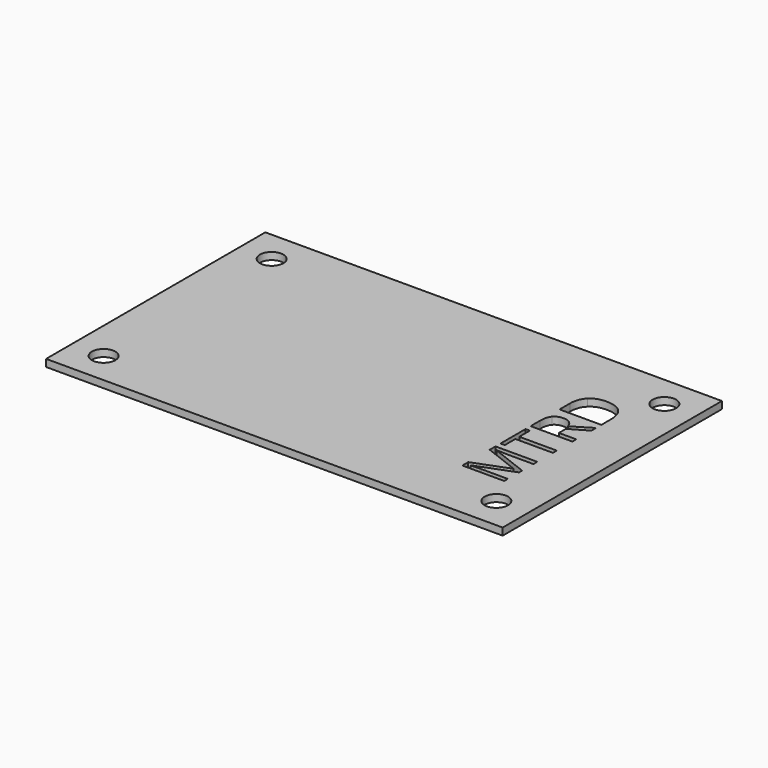
from build123d import *

# Parameters (mm, degrees)
F0_W     = 63.5
F0_H     = 38.11
F0_R     = 1.63195
F1_DEPTH = 1


with BuildPart() as f1:
    # F0 (on Top) → F1 (new body)
    with BuildSketch(Plane.XY):
        Rectangle(F0_W, F0_H)
        with Locations((-27.305, -14.605)):
            Circle(F0_R, mode=Mode.SUBTRACT)
        with Locations((27.305, -14.605)):
            Circle(F0_R, mode=Mode.SUBTRACT)
        with BuildLine():
            Line((25.0343345106, -7.2836339695), (25.0343345106, -7.8282632467))
            Line((25.0343345106, -7.8282632467), (19.8807163504, -9.800635629))
            Line((19.8807163504, -9.800635629), (19.8807163504, -9.8324480867))
            add(Edge.make_bspline(
                [(19.8807163504, -9.8324480867), (20.4927880381, -9.776458161), (21.3364544184, -9.776458161)],
                knots=[0, 0, 0, 1, 1, 1], degree=2))
            Line((21.3364544184, -9.776458161), (25.0343345106, -9.776458161))
            Line((25.0343345106, -9.776458161), (25.0343345106, -10.4012548318))
            Line((25.0343345106, -10.4012548318), (19.220289727, -10.4012548318))
            Line((19.220289727, -10.4012548318), (19.220289727, -9.3832561829))
            Line((19.220289727, -9.3832561829), (24.0163358617, -7.5419511267))
            Line((24.0163358617, -7.5419511267), (24.0163358617, -7.5101386689))
            Line((24.0163358617, -7.5101386689), (19.220289727, -5.6535636329))
            Line((19.220289727, -5.6535636329), (19.220289727, -4.6431999739))
            Line((19.220289727, -4.6431999739), (25.0343345106, -4.6431999739))
            Line((25.0343345106, -4.6431999739), (25.0343345106, -5.3188965771))
            Line((25.0343345106, -5.3188965771), (21.2880994826, -5.3188965771))
            add(Edge.make_bspline(
                [(21.2880994826, -5.3188965771), (20.6442153371, -5.3188965771), (19.8883513403, -5.2629066514)],
                knots=[0, 0, 0, 1, 1, 1], degree=2))
            Line((19.8883513403, -5.2629066514), (19.8883513403, -5.2947191092))
            Line((19.8883513403, -5.2947191092), (25.0343345106, -7.2836339695))
        make_face(mode=Mode.SUBTRACT)
        Polygon((19.8209089298, -1.2596269646), (25.0343345106, -1.2596269646), (25.0343345106, -1.9353235678), (19.8209089298, -1.9353235678), (19.8209089298, -3.776628624), (19.220289727, -3.776628624), (19.220289727, 0.5816780917), (19.8209089298, 0.5816780917), align=None, mode=Mode.SUBTRACT)
        with Locations((-27.305, 14.605)):
            Circle(F0_R, mode=Mode.SUBTRACT)
        with BuildLine():
            Line((22.6165877194, 3.3468169218), (22.6165877194, 2.1328535329))
            Line((22.6165877194, 2.1328535329), (25.0343345106, 2.1328535329))
            Line((25.0343345106, 2.1328535329), (25.0343345106, 1.4571569297))
            Line((25.0343345106, 1.4571569297), (19.220289727, 1.4571569297))
            Line((19.220289727, 1.4571569297), (19.220289727, 3.0515973136))
            add(Edge.make_bspline(
                [(19.220289727, 3.0515973136), (19.220289727, 4.1217683933), (19.6300341831, 4.6326764652)],
                knots=[0, 0, 0, 1, 1, 1], degree=2))
            add(Edge.make_bspline(
                [(19.6300341831, 4.6326764652), (20.0397786393, 5.1435845371), (20.8630850466, 5.1435845371)],
                knots=[0, 0, 0, 1, 1, 1], degree=2))
            add(Edge.make_bspline(
                [(20.8630850466, 5.1435845371), (22.0159685165, 5.1435845371), (22.4218954778, 3.9741585892)],
                knots=[0, 0, 0, 1, 1, 1], degree=2))
            Line((22.4218954778, 3.9741585892), (25.0343345106, 5.5533289933))
            Line((25.0343345106, 5.5533289933), (25.0343345106, 4.7542000539))
            Line((25.0343345106, 4.7542000539), (22.6165877194, 3.3468169218))
        make_face(mode=Mode.SUBTRACT)
        with BuildLine():
            add(Edge.make_bspline(
                [(19.9716999797, 10.3805513366), (20.7231102324, 11.1319615894), (22.0719584422, 11.1319615894)],
                knots=[0, 0, 0, 1, 1, 1], degree=2))
            add(Edge.make_bspline(
                [(22.0719584422, 11.1319615894), (23.5111540321, 11.1319615894), (24.2727442713, 10.3506476263)],
                knots=[0, 0, 0, 1, 1, 1], degree=2))
            add(Edge.make_bspline(
                [(24.2727442713, 10.3506476263), (25.0343345106, 9.5693336633), (25.0343345106, 8.1021431105)],
                knots=[0, 0, 0, 1, 1, 1], degree=2))
            Line((25.0343345106, 8.1021431105), (25.0343345106, 6.4911602486))
            Line((25.0343345106, 6.4911602486), (19.220289727, 6.4911602486))
            Line((19.220289727, 6.4911602486), (19.220289727, 8.2726578842))
            add(Edge.make_bspline(
                [(19.220289727, 8.2726578842), (19.220289727, 9.6291410839), (19.9716999797, 10.3805513366)],
                knots=[0, 0, 0, 1, 1, 1], degree=2))
        make_face(mode=Mode.SUBTRACT)
        with Locations((27.305, 14.605)):
            Circle(F0_R, mode=Mode.SUBTRACT)
    extrude(amount=F1_DEPTH)


solid = f1.part
